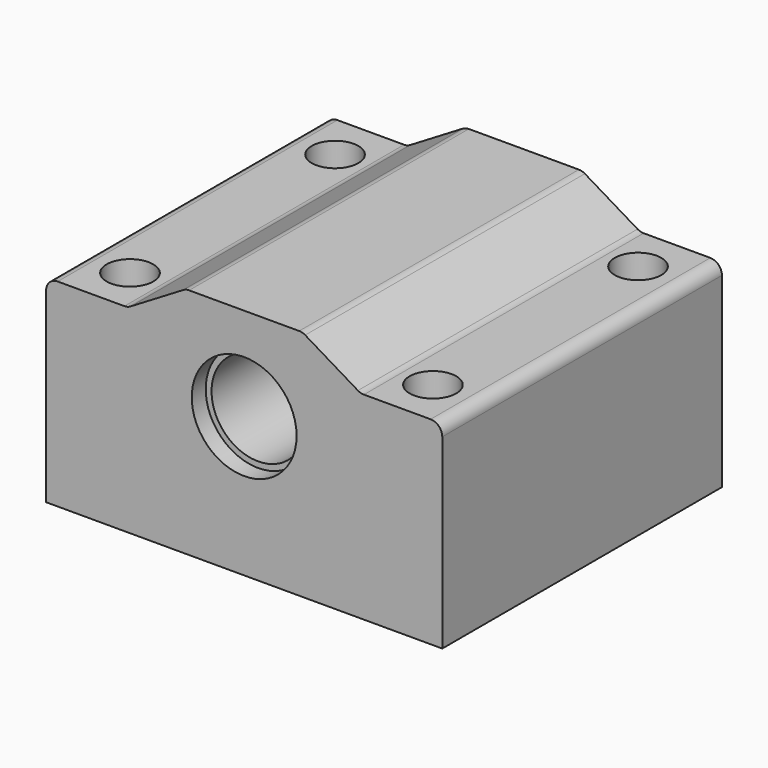
from build123d import *

# Parameters (mm, degrees)
F0_R     = 4
F1_DEPTH = 30
F2_R     = 2
F3_DEPTH = 25
F4_R     = 4.5
F5_DEPTH = 1.5
F6_R     = 4.5
F7_DEPTH = 1.5
F8_R     = 1


with BuildPart() as f1:
    # F0 (on Front) → F1 (new body)
    with BuildSketch(Plane.XZ):
        Polygon((-10, 5), (-17, 5), (-17, -12), (17, -12), (17, 5), (10, 5), (5, 8), (-5, 8), align=None)
        Circle(F0_R, mode=Mode.SUBTRACT)
    extrude(amount=F1_DEPTH)

    # F2 (on face) → F3 (cut)
    with BuildSketch(Plane(origin=(0, 0, -12), x_dir=(1, 0, 0), z_dir=(0, 0, -1))):
        with Locations((-13, 26)):
            Circle(F2_R)
        with Locations((-13, 4)):
            Circle(F2_R)
        with Locations((13, 26)):
            Circle(F2_R)
        with Locations((13, 4)):
            Circle(F2_R)
    extrude(amount=-F3_DEPTH, mode=Mode.SUBTRACT)

    # F4 (on face) → F5 (cut)
    with BuildSketch(Plane.XZ.offset(30)):
        Circle(F4_R)
    extrude(amount=-F5_DEPTH, mode=Mode.SUBTRACT)

    # F6 (on face) → F7 (cut)
    with BuildSketch(Plane(origin=(0, 0, 0), x_dir=(-1, 0, 0), z_dir=(0, 1, 0))):
        Circle(F6_R)
    extrude(amount=-F7_DEPTH, mode=Mode.SUBTRACT)

    # F8
    f8_edges = [f1.edges().sort_by_distance(p)[0] for p in [
        (-17, -15, 5),
        (-10, -15, 5),
        (-5, -15, 8),
        (5, -15, 8),
        (10, -15, 5),
        (17, -15, 5),
    ]]
    fillet(f8_edges, radius=F8_R)


solid = f1.part
